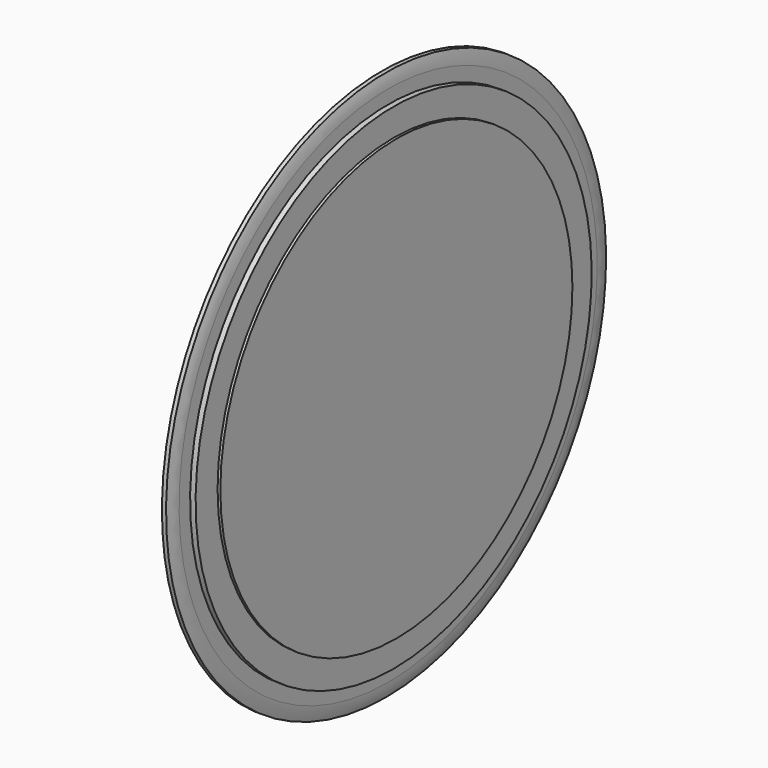
from build123d import *

# Parameters (mm, degrees)
F2_R      = 80
F2_R_2    = 30
F3_DEPTH  = 5.001
F3_FACE_R = 30
F4_DEPTH  = 1


with BuildPart() as f1:
    # F0 (on Front) → F1 (revolve)
    with BuildSketch(Plane.XZ):
        Polygon((5, 0), (0, 0), (0, -95), (3, -95), (3, -90), (5, -90), align=None)
        with BuildLine():
            Line((3, -95), (0, -95))
            ThreePointArc((0, -95), (0.1885429865, -97.527968552), (0.75, -100))
            Line((0.75, -100), (2.25, -100))
            ThreePointArc((2.25, -100), (2.8114570135, -97.527968552), (3, -95))
        make_face()
    revolve(axis=Axis((2.5, 0, 0), (1, 0, 0)))

    # F2 (on face) → F3 (cut, through all)
    with BuildSketch(Plane.YZ.offset(5)):
        Circle(F2_R)
        Circle(F2_R_2, mode=Mode.SUBTRACT)
    extrude(amount=-F3_DEPTH, mode=Mode.SUBTRACT)

    # F2 (on face) + F3_face (on face) → F4 (join)
    with BuildSketch(Plane.YZ.offset(5)):
        Circle(F2_R)
        Circle(F2_R_2, mode=Mode.SUBTRACT)
    with BuildSketch(Plane.YZ.offset(5)):
        Circle(F3_FACE_R)
    extrude(amount=F4_DEPTH)


solid = f1.part
